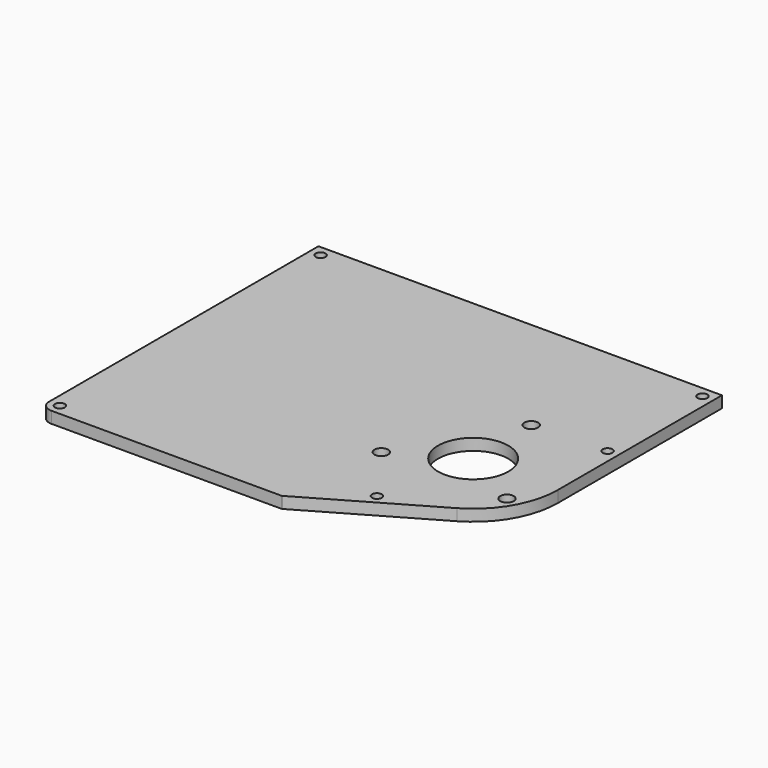
from build123d import *

# Parameters (mm, degrees)
F0_R     = 2.15265
F0_R_2   = 3
F0_R_3   = 15.497899
F1_DEPTH = 5.08
F2_R     = 4.7625
F3_R     = 0.762


with BuildPart() as f1:
    # F0 (on Top) → F1 (new body)
    with BuildSketch(Plane.XY):
        with BuildLine():
            Line((37.381262, 90.366811), (-140.527755, 90.366811))
            Line((-140.527755, 90.366811), (-140.527755, -62.858167))
            Line((-140.527755, -62.858167), (-34.111015, -62.858167))
            Line((-34.111015, -62.858167), (18.690631, -32.373123))
            ThreePointArc((18.690631, -32.373123), (32.373123, -18.690631), (37.381262, 0))
            Line((37.381262, 0), (37.381262, 90.366811))
        make_face()
        with Locations((-135.765255, -58.095667)):
            Circle(F0_R, mode=Mode.SUBTRACT)
        with Locations((-8.417715, -42.524872)):
            Circle(F0_R, mode=Mode.SUBTRACT)
        with Locations((-27.712823, -16.000006)):
            Circle(F0_R_2, mode=Mode.SUBTRACT)
        with Locations((27.712823, -16.000006)):
            Circle(F0_R_2, mode=Mode.SUBTRACT)
        Circle(F0_R_3, mode=Mode.SUBTRACT)
        with Locations((-135.765255, 85.604311)):
            Circle(F0_R, mode=Mode.SUBTRACT)
        with Locations((0, 32.000012)):
            Circle(F0_R_2, mode=Mode.SUBTRACT)
        with Locations((32.618762, 33.279601)):
            Circle(F0_R, mode=Mode.SUBTRACT)
        with Locations((32.618762, 85.604311)):
            Circle(F0_R, mode=Mode.SUBTRACT)
    extrude(amount=F1_DEPTH)

    # F2
    f2_edges = [f1.edges().sort_by_distance(p)[0] for p in [
        (-140.527755, -62.858167, 2.54),
    ]]
    fillet(f2_edges, radius=F2_R)

    # F3
    f3_edges = [f1.edges().sort_by_distance(p)[0] for p in [
        (-34.111015, -62.858167, 2.54),
    ]]
    fillet(f3_edges, radius=F3_R)


solid = f1.part
